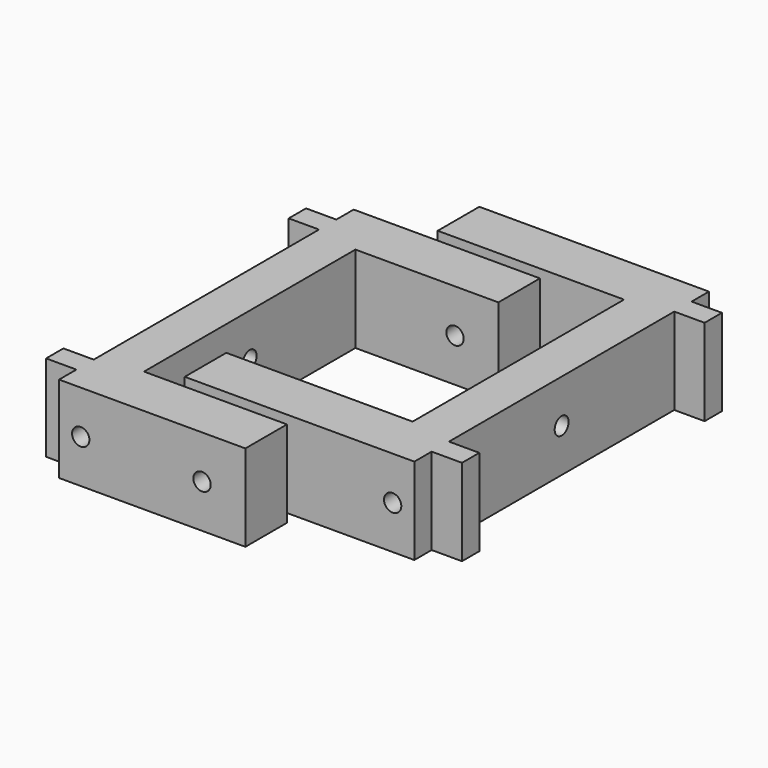
from build123d import *

# Parameters (mm, degrees)
PAD_DEPTH       = 20
SKETCH004_R     = 2
POCKET002_DEPTH = 43.001
SKETCH005_R     = 2
POCKET003_DEPTH = 85.001
PAD001_DEPTH    = 20
SKETCH007_R     = 2
POCKET004_DEPTH = 53.001
SKETCH008_R     = 2
POCKET005_DEPTH = 85.001


with BuildPart() as soporte_agujero_superior_lateral:
    # Sketch → Pad (new body)
    with BuildSketch(Plane.XY):
        Polygon((-10, -42.5), (33, -42.5), (33, -30.5), (0, -30.5), (0, 30.5), (33, 30.5), (33, 42.5), (-10, 42.5), (-10, 37.5), (-17, 37.5), (-17, 32.5), (-10, 32.5), (-10, -32.5), (-17, -32.5), (-17, -37.5), (-10, -37.5), align=None)
    extrude(amount=PAD_DEPTH)

    # Sketch004 → Pocket002 (cut, through all)
    with BuildSketch(Plane(origin=(-10, 0, 0), x_dir=(0, -1, 0), z_dir=(-1, 0, 0))):
        with Locations((0, 10)):
            Circle(SKETCH004_R)
    extrude(amount=-POCKET002_DEPTH, mode=Mode.SUBTRACT)

    # Sketch005 → Pocket003 (cut, through all)
    with BuildSketch(Plane.XZ.offset(42.5)):
        with Locations((-5, 10)):
            Circle(SKETCH005_R)
        with Locations((23, 10)):
            Circle(SKETCH005_R)
    extrude(amount=-POCKET003_DEPTH, mode=Mode.SUBTRACT)


with BuildPart() as soporte_agujero_superior_lateral001:
    # Sketch006 → Pad001 (new body)
    with BuildSketch(Plane(origin=(50, 15, 0), x_dir=(-1, 0, 0), z_dir=(0, 0, 1))):
        Polygon((-10, -42.5), (43, -42.5), (43, -30.5), (0, -30.5), (0, 30.5), (43, 30.5), (43, 42.5), (-10, 42.5), (-10, 37.5), (-17, 37.5), (-17, 32.5), (-10, 32.5), (-10, -32.5), (-17, -32.5), (-17, -37.5), (-10, -37.5), align=None)
    extrude(amount=PAD001_DEPTH)

    # Sketch007 → Pocket004 (cut, through all)
    with BuildSketch(Plane(origin=(60, 15, 0), x_dir=(0, 1, 0), z_dir=(1, 0, 0))):
        with Locations((0, 10)):
            Circle(SKETCH007_R)
    extrude(amount=-POCKET004_DEPTH, mode=Mode.SUBTRACT)

    # Sketch008 → Pocket005 (cut, through all)
    with BuildSketch(Plane(origin=(50, 57.5, 0), x_dir=(-1, 0, 0), z_dir=(0, 1, 0))):
        with Locations((-5, 10)):
            Circle(SKETCH008_R)
        with Locations((33, 10)):
            Circle(SKETCH008_R)
    extrude(amount=-POCKET005_DEPTH, mode=Mode.SUBTRACT)


solid = Compound([soporte_agujero_superior_lateral.part, soporte_agujero_superior_lateral001.part])
